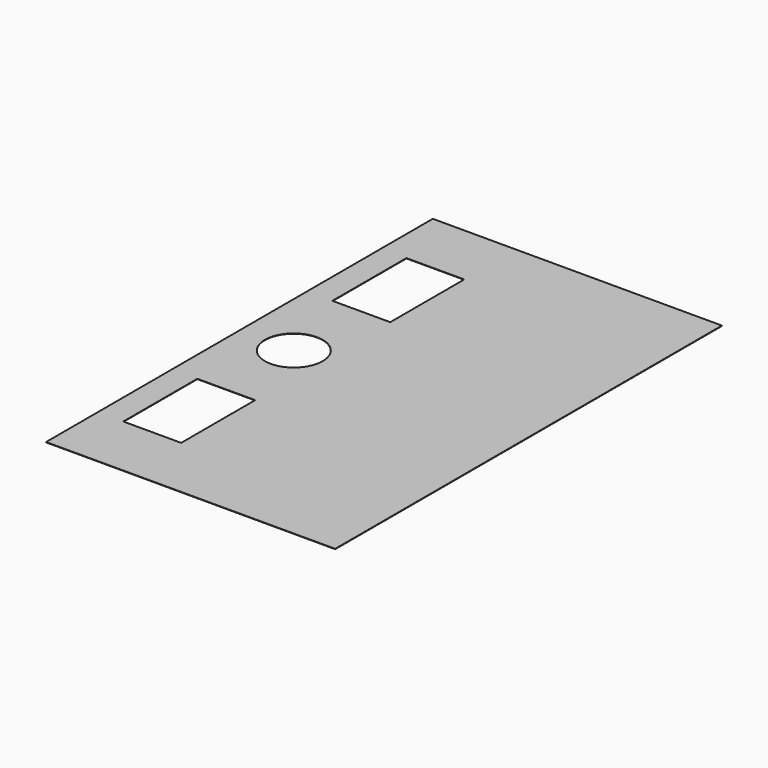
from build123d import *

# Parameters (mm, degrees)
F0_W     = 1250
F0_H     = 2090
F0_W_2   = 250
F0_H_2   = 400
F0_R     = 125
F1_DEPTH = 1.6


with BuildPart() as f1:
    # F0 (on Top) → F1 (new body)
    with BuildSketch(Plane.XY):
        Rectangle(F0_W, F0_H)
        with Locations((-390, -565)):
            Rectangle(F0_W_2, F0_H_2, mode=Mode.SUBTRACT)
        with Locations((-390, 0)):
            Circle(F0_R, mode=Mode.SUBTRACT)
        with Locations((-390, 565)):
            Rectangle(F0_W_2, F0_H_2, mode=Mode.SUBTRACT)
    extrude(amount=F1_DEPTH)


solid = f1.part
